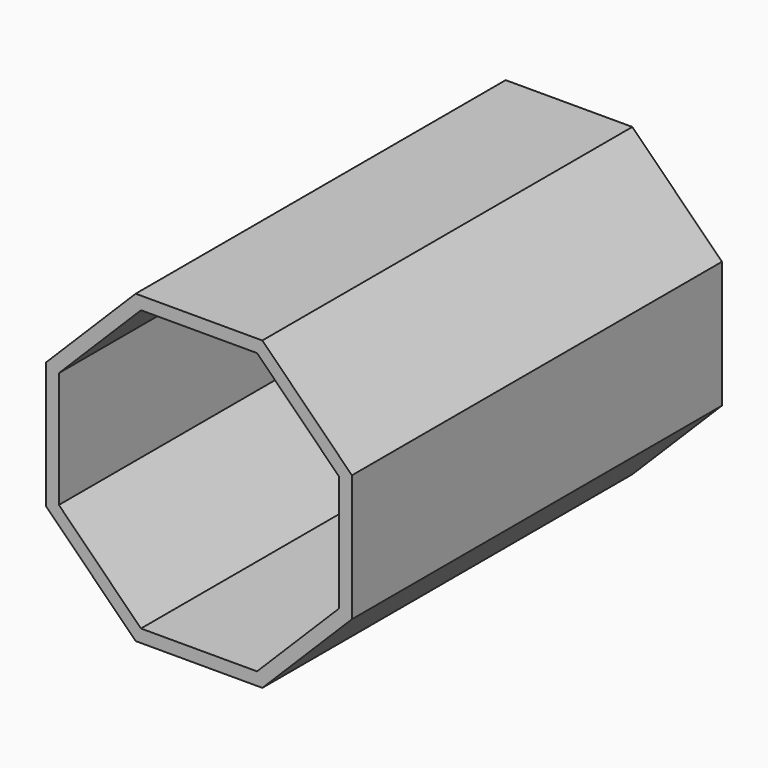
from build123d import *

# Parameters (mm, degrees)
F1_DEPTH = 19.05


with BuildPart() as f1:
    # F0 (on Front) → F1 (new body, symmetric)
    with BuildSketch(Plane.XZ):
        Polygon((-8.907414, 8.907414), (-8.160713, 8.160713), (-4.780435, 11.540991), (4.780435, 11.540991), (8.160713, 8.160713), (8.907414, 8.907414), (5.217842, 12.596986), (-5.217842, 12.596986), align=None)
        Polygon((-11.540991, 4.780435), (-8.160713, 8.160713), (-8.907414, 8.907414), (-12.596986, 5.217842), (-12.596986, -5.217842), (-8.907414, -8.907414), (-8.160713, -8.160713), (-11.540991, -4.780435), align=None)
        Polygon((8.907414, 8.907414), (8.160713, 8.160713), (11.540991, 4.780435), (11.540991, -4.780435), (8.160713, -8.160713), (8.907414, -8.907414), (12.596986, -5.217842), (12.596986, 5.217842), align=None)
        Polygon((-4.780435, -11.540991), (-8.160713, -8.160713), (-8.907414, -8.907414), (-5.217842, -12.596986), (5.217842, -12.596986), (8.907414, -8.907414), (8.160713, -8.160713), (4.780435, -11.540991), align=None)
    extrude(amount=F1_DEPTH, both=True)


solid = f1.part
